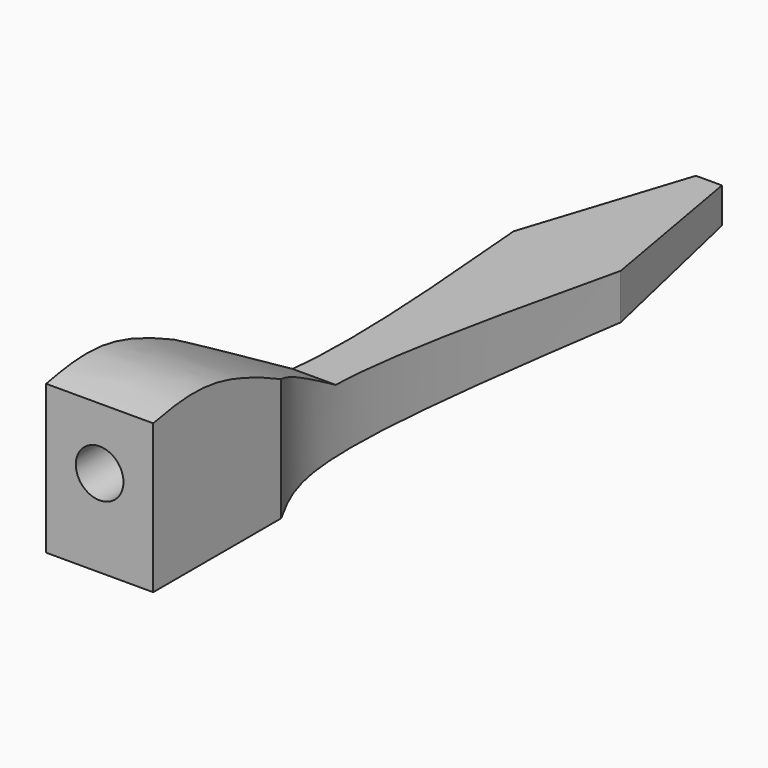
from build123d import *

# Parameters (mm, degrees)
F1_DEPTH = 21.43125
F2_R     = 9.525
F3_DEPTH = 50.8
F6_DEPTH = 42.8635
F7_DEPTH = 61.9829719698


with BuildPart() as f1:
    # F0 (on Right) → F1 (new body, symmetric)
    with BuildSketch(Plane.YZ):
        Polygon((-152.4, 69.85), (-152.4, 0), (152.4, 0), (152.4, 19.05), align=None)
    extrude(amount=F1_DEPTH, both=True)

    # F2 (on face) → F3 (cut)
    with BuildSketch(Plane.XZ.offset(152.4)):
        with Locations((0, 34.925)):
            Circle(F2_R)
    extrude(amount=-F3_DEPTH, mode=Mode.SUBTRACT)

    # F4 (on face) → F6 (cut, through all)
    with BuildSketch(Plane.YZ.offset(21.43125)):
        with BuildLine():
            Line((-152.4, 69.85), (-152.4, 59.5187321305))
            add(Edge.make_bspline(
                [(-152.4, 59.5187321305), (-142.2583344868, 61.4276814743), (-116.1526932903, 66.3415042155), (-72.0639469007, 40.8688743493), (-45.1030433178, 25.2919942141)],
                knots=[0, 0, 0, 0, 0.3884855935, 1, 1, 1, 1], degree=3))
            Line((-45.1030433178, 25.2919942141), (152.4, 14.1683043912))
            Line((152.4, 14.1683043912), (152.4, 19.05))
            Line((152.4, 19.05), (-152.4, 69.85))
        make_face()
    extrude(amount=-F6_DEPTH, mode=Mode.SUBTRACT)

    # F5 (on face) → F7 (intersect, through all)
    with BuildSketch(Plane(origin=(0, 0, 0), x_dir=(1, 0, 0), z_dir=(0, 0, -1))):
        with BuildLine():
            Line((-21.43125, 152.4), (-21.43125, 88.3942618966))
            add(Edge.make_bspline(
                [(-21.43125, 88.3942618966), (-16.4613031807, 79.4460650051), (-1.6409073495, 52.762515919), (-13.5294629941, -27.8924381707), (-21.43125, -81.5001502633)],
                knots=[0, 0, 0, 0, 0.3353450796, 1, 1, 1, 1], degree=3))
            Line((-21.43125, -81.5001502633), (-5.206305068, -152.4))
            Line((-5.206305068, -152.4), (5.206305068, -152.4))
            Line((5.206305068, -152.4), (21.43125, -81.5001502633))
            add(Edge.make_bspline(
                [(21.43125, 88.3942618966), (16.4613031807, 79.4460650051), (1.6409073495, 52.762515919), (13.5294629941, -27.8924381707), (21.43125, -81.5001502633)],
                knots=[0, 0, 0, 0, 0.3353450796, 1, 1, 1, 1], degree=3))
            Line((21.43125, 88.3942618966), (21.43125, 152.4))
            Line((21.43125, 152.4), (-21.43125, 152.4))
        make_face()
    extrude(amount=-F7_DEPTH, mode=Mode.INTERSECT)


solid = f1.part
